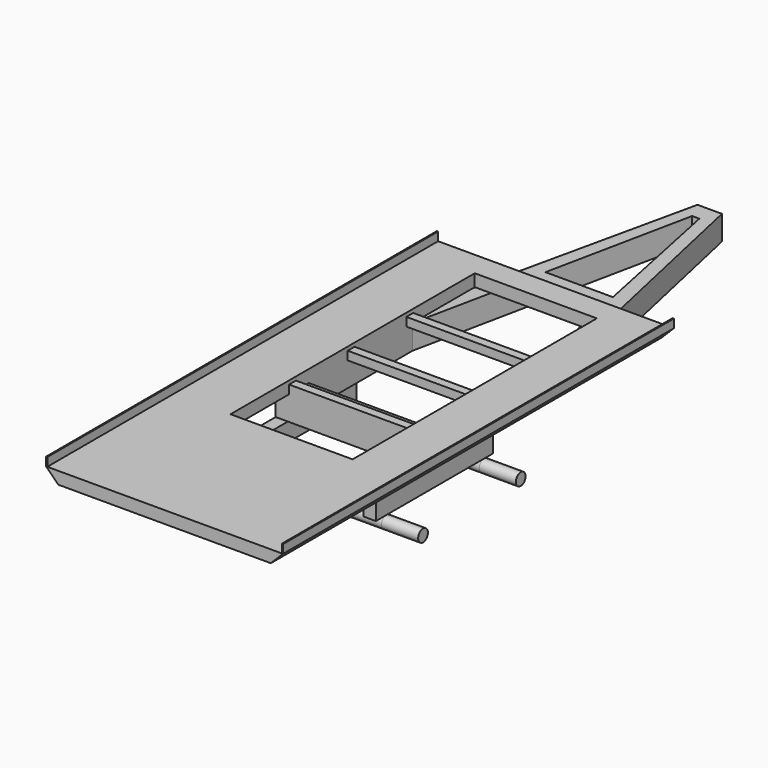
from build123d import *

# Parameters (mm, degrees)
F1_DEPTH       = 4000
F2_W           = 1000
F2_H           = 2500
F3_DEPTH       = 100
F4_W           = 70
F4_H           = 70
F5_DEPTH       = 1000
F6_W           = 10
F6_H           = 4000
F7_DEPTH       = 70
F9_DEPTH       = 200
F10_W          = 100
F10_H          = 500
F10_H_2        = 700
F11_DEPTH      = 150
F12_R          = 50
F13_DEPTH      = 300
F13_DEPTH_BACK = 1500


with BuildPart() as f1:
    # F0 (on Front) → F1 (new body)
    with BuildSketch(Plane.XZ):
        Polygon((0, 100), (100, 0), (1840, 0), (1940, 100), align=None)
    extrude(amount=-F1_DEPTH)

    # F2 (on face) → F3 (cut)
    with BuildSketch(Plane.XY.offset(100)):
        with Locations((970, 2550)):
            Rectangle(F2_W, F2_H)
    extrude(amount=-F3_DEPTH, mode=Mode.SUBTRACT)

    # F4 (on face) → F5 (join)
    with BuildSketch(Plane.YZ.offset(470)):
        with Locations((1935, 35)):
            Rectangle(F4_W, F4_H)
        with Locations((2535, 35)):
            Rectangle(F4_W, F4_H)
        with Locations((3135, 35)):
            Rectangle(F4_W, F4_H)
    extrude(amount=F5_DEPTH)

    # F6 (on face) → F7 (join)
    with BuildSketch(Plane.XY.offset(100)):
        with Locations((5, 2000)):
            Rectangle(F6_W, F6_H)
        with Locations((1935, 2000)):
            Rectangle(F6_W, F6_H)
    extrude(amount=F7_DEPTH)

    # F8 (on face) → F9 (join)
    with BuildSketch(Plane(origin=(0, 0, 0), x_dir=(1, 0, 0), z_dir=(0, 0, -1))):
        Polygon((1580.075055, -3274.725724), (1580.075055, -1900), (359.924945, -1900), (359.924945, -3274.725724), (870, -5580), (1070, -5580), align=None)
        Polygon((999.55261, -5437.162386), (940.44739, -5437.162386), (693.571005, -4243.926525), (1246.428995, -4243.926525), align=None, mode=Mode.SUBTRACT)
        Polygon((470, -2100), (1470, -2100), (1470, -3163.333333), (1276.326635, -4099.421266), (663.673365, -4099.421266), (470, -3163.333333), align=None, mode=Mode.SUBTRACT)
    extrude(amount=F9_DEPTH)

    # F10 (on face) → F11 (join)
    with BuildSketch(Plane(origin=(0, 0, -200), x_dir=(1, 0, 0), z_dir=(0, 0, -1))):
        with Locations((1530.075055, -1650)):
            Rectangle(F10_W, F10_H)
        with Locations((1530.075055, -2250)):
            Rectangle(F10_W, F10_H_2)
        with Locations((409.924945, -1650)):
            Rectangle(F10_W, F10_H)
        with Locations((409.924945, -2250)):
            Rectangle(F10_W, F10_H_2)
    extrude(amount=F11_DEPTH)

    # F12 (on face) → F13 (join, two sides)
    with BuildSketch(Plane.YZ.offset(1580.075055)) as f13_sk:
        with Locations((1508.271217, -400)):
            Circle(F12_R)
        with Locations((2508.271217, -400)):
            Circle(F12_R)
    extrude(amount=F13_DEPTH)
    extrude(f13_sk.sketch, amount=-F13_DEPTH_BACK)


solid = f1.part
